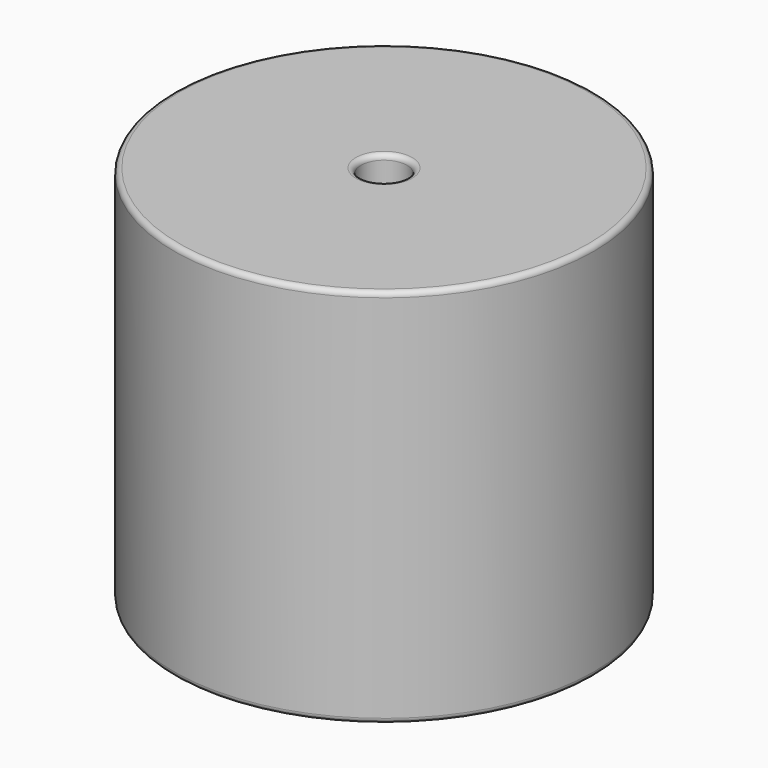
from build123d import *

# Parameters (mm, degrees)
SKETCH001_R       = 0.95
PAD001_DEPTH      = 18.415
PAD001_DEPTH_BACK = 3.5
SKETCH_R          = 20.32
SKETCH_R_2        = 2.225
PAD_DEPTH         = 36.83
FILLET_R          = 0.5


with BuildPart() as pad001:
    # Sketch001 → Pad001 (new body, two sides)
    with BuildSketch(Plane.XY.offset(0.5)) as pad001_sk:
        Circle(SKETCH001_R)
        with Locations((27.94, 0)):
            Circle(SKETCH001_R)
    extrude(amount=PAD001_DEPTH)
    extrude(pad001_sk.sketch, amount=-PAD001_DEPTH_BACK)


with BuildPart() as obj1:
    # Sketch → Pad (new body)
    with BuildSketch(Plane.XY.offset(0.1)):
        with Locations((13.97, 0)):
            Circle(SKETCH_R)
        with Locations((13.97, 0)):
            Circle(SKETCH_R_2, mode=Mode.SUBTRACT)
    extrude(amount=PAD_DEPTH)

    # Fillet
    fillet_edges = [obj1.edges().sort_by_distance(p)[0] for p in [
        (11.745, 0, 36.93),
        (-6.35, 0, 36.93),
        (-6.35, 0, 0.1),
    ]]
    fillet(fillet_edges, radius=FILLET_R)

    # obj1: union Pad001
    add(pad001.part)


solid = obj1.part
